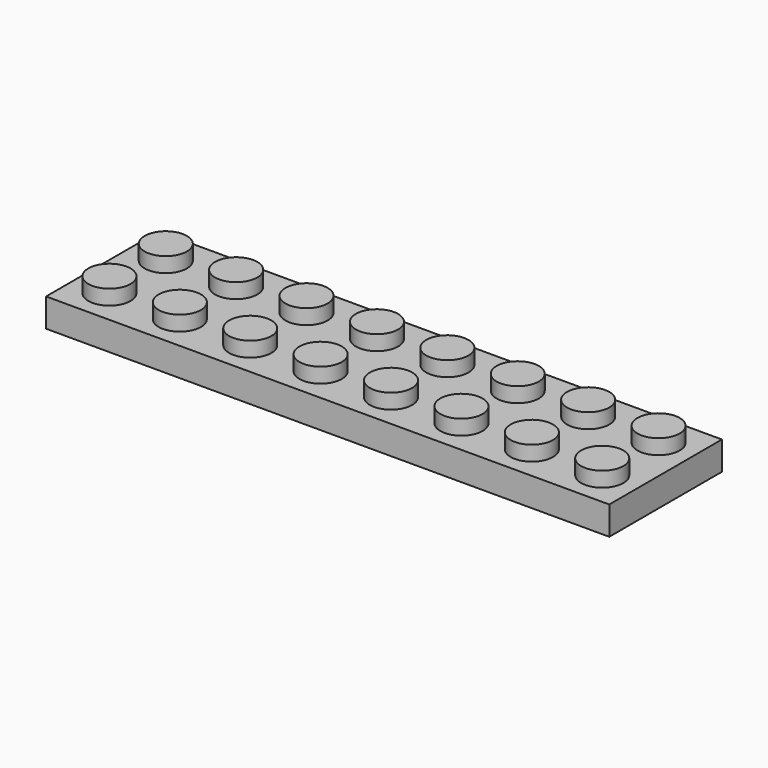
from build123d import *

# Parameters (mm, degrees)
F1_DEPTH = 8
F3_W     = 8
F3_H     = 8
F3_R     = 2.4
F4_DEPTH = 1.7
F5_R     = 2.4
F6_DEPTH = 1.7


with BuildPart() as f1:
    # F0 (on Front) → F1 (new body)
    with BuildSketch(Plane.XZ):
        Polygon((-2.4, 3.2333333013), (-4, 3.2333333013), (-4, 0), (4, 0), (4, 3.2333333013), (2.4, 3.2333333013), (2.4, 4.9333333013), (-2.4, 4.9333333013), align=None)
    extrude(amount=F1_DEPTH)

    # F3 (on plane+point) → F4 (cut, through all)
    with BuildSketch(Plane.XY.offset(4.9333333013)):
        with Locations((0, -4)):
            Rectangle(F3_W, F3_H)
        with Locations((0, -4)):
            Circle(F3_R, mode=Mode.SUBTRACT)
    extrude(amount=-F4_DEPTH, mode=Mode.SUBTRACT)

    # F5 (on Top) → F6 (cut)
    with BuildSketch(Plane.XY):
        with Locations((0, -4)):
            Circle(F5_R)
    extrude(amount=F6_DEPTH, mode=Mode.SUBTRACT)

    # F8: F1 across plane


with BuildPart() as f1_1:
    add(f1.part)
    add(f1.part.mirror(Plane.YZ.offset(4)))

    # F9: F1 across plane


with BuildPart() as f1_2:
    add(f1_1.part)
    add(f1_1.part.mirror(Plane.XZ))

    # F11: F1 across plane


with BuildPart() as f1_3:
    add(f1_2.part)
    add(f1_2.part.mirror(Plane.YZ.offset(12)))

    # F12: F1 across face


with BuildPart() as f1_4:
    add(f1_3.part)
    add(f1_3.part.mirror(Plane(origin=(28, 0, 1.6166666507), x_dir=(0, 1, 0), z_dir=(1, 0, 0))))


solid = f1_4.part
